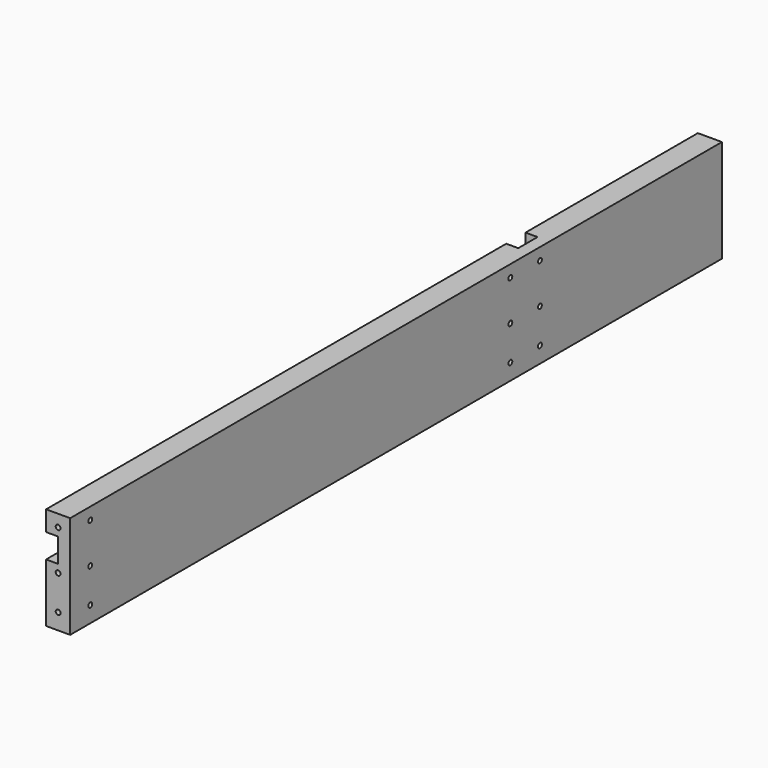
from build123d import *

# Parameters (mm, degrees)
SKETCH_W             = 507.5
SKETCH_H             = 64
PAD_DEPTH            = 15
POCKET_DEPTH         = 7.5
POCKET001_DEPTH      = 3.75
LINEARPATTERN_COUNT  = 5
LINEARPATTERN_PITCH  = 70.2
SKETCH003_W          = 15
SKETCH003_H          = 64
POCKET002_DEPTH      = 7.5
SKETCH004_R          = 1.5
POCKET003_DEPTH      = 15.001
POCKET003_DEPTH_BACK = 0.001
SKETCH005_R          = 1.5
POCKET004_DEPTH      = 20
SKETCH006_R          = 1.5
POCKET005_DEPTH      = 15.001


with BuildPart() as part:
    # Sketch → Pad (new body)
    with BuildSketch(Plane.YZ):
        with Locations((253.75, 32)):
            Rectangle(SKETCH_W, SKETCH_H)
    extrude(amount=PAD_DEPTH)

    # Sketch001 (on Face5 of Pad) → Pocket (cut)
    with BuildSketch(Plane(origin=(0, 0, 0), x_dir=(0, 1, 0), z_dir=(-1, 0, 0))):
        Polygon((0, -36.5), (507.5, -36.5), (507.5, -51.5), (0, -51.5), (0, -44), align=None)
    extrude(amount=-POCKET_DEPTH, mode=Mode.SUBTRACT)

    # Sketch002 (on Face4 of Pocket) → Pocket001 (cut)
    with BuildSketch(Plane(origin=(0, 0, 0), x_dir=(0, 1, 0), z_dir=(-1, 0, 0))):
        with BuildLine():
            Line((31.3, 0), (46.3, 0))
            Line((46.3, 0), (46.3, -34.5))
            ThreePointArc((46.3, -34.5), (46.885786, -35.914214), (48.3, -36.5))
            Line((29.3, -36.5), (48.3, -36.5))
            ThreePointArc((29.3, -36.5), (30.714214, -35.914214), (31.3, -34.5))
            Line((31.3, -34.5), (31.3, 0))
        make_face()
    pocket001 = extrude(amount=-POCKET001_DEPTH, mode=Mode.SUBTRACT)

    # LinearPattern: Pocket001 ×5
    with Locations(*[(0, i * LINEARPATTERN_PITCH, 0) for i in range(1, LINEARPATTERN_COUNT)]):
        add(pocket001, mode=Mode.SUBTRACT)

    # Sketch003 (on Face2 of MultiTransform) → Pocket002 (cut)
    with BuildSketch(Plane(origin=(0, 0, 0), x_dir=(0, 1, 0), z_dir=(-1, 0, 0))):
        with Locations((365.8, -32)):
            Rectangle(SKETCH003_W, SKETCH003_H)
    extrude(amount=-POCKET002_DEPTH, mode=Mode.SUBTRACT)

    # Sketch004 (on Face2 of Pocket002) → Pocket003 (cut, two sides)
    with BuildSketch(Plane(origin=(0, 0, 0), x_dir=(0, 1, 0), z_dir=(-1, 0, 0))) as pocket003_sk:
        with Locations((365.8, -10)):
            Circle(SKETCH004_R)
        with Locations((365.8, -31.5)):
            Circle(SKETCH004_R)
        with Locations((365.8, -56.5)):
            Circle(SKETCH004_R)
    extrude(amount=-POCKET003_DEPTH, mode=Mode.SUBTRACT)
    extrude(pocket003_sk.sketch, amount=POCKET003_DEPTH_BACK, mode=Mode.SUBTRACT)

    # Sketch005 (on Face29 of Pocket003) → Pocket004 (cut)
    with BuildSketch(Plane(origin=(0, 0, 0), x_dir=(0, 0, -1), z_dir=(0, -1, 0))):
        with Locations((-56.5, 7.5)):
            Circle(SKETCH005_R)
        with Locations((-31.5, 7.5)):
            Circle(SKETCH005_R)
        with Locations((-10, 7.5)):
            Circle(SKETCH005_R)
    extrude(amount=-POCKET004_DEPTH, mode=Mode.SUBTRACT)

    # Sketch006 (on Face2 of Pocket003) → Pocket005 (cut, through all)
    with BuildSketch(Plane(origin=(0, 0, 0), x_dir=(0, 1, 0), z_dir=(-1, 0, 0))):
        with Locations((15.65, -10)):
            Circle(SKETCH006_R)
        with Locations((15.65, -31.5)):
            Circle(SKETCH006_R)
        with Locations((15.65, -56.5)):
            Circle(SKETCH006_R)
        with Locations((342.75, -10)):
            Circle(SKETCH006_R)
        with Locations((342.75, -31.5)):
            Circle(SKETCH006_R)
        with Locations((342.75, -56.5)):
            Circle(SKETCH006_R)
    extrude(amount=-POCKET005_DEPTH, mode=Mode.SUBTRACT)


solid = part.part
